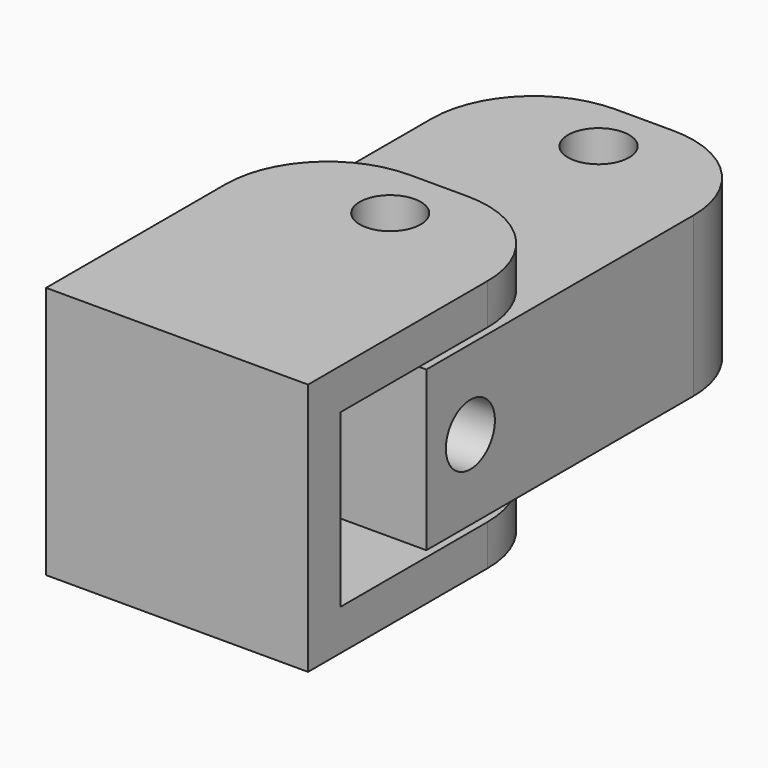
from build123d import *

# Parameters (mm, degrees)
F1_DEPTH      = 7.874
F1_DEPTH_BACK = 7.874
F2_T          = -2.54
F4_DEPTH      = 4.953
F4_DEPTH_BACK = 4.953
F5_R          = 1.899737
F6_DEPTH      = 17.018
F5_R_2        = 1.90461
F7_DEPTH      = 14.986
F8_R          = 1.908602
F9_DEPTH      = 17.272


with BuildPart() as f1:
    # F0 (on Top) → F1 (new body, two sides)
    with BuildSketch(Plane.XY) as f1_sk:
        with BuildLine():
            Line((-8.155428, -10.163382), (8.155428, -10.163382))
            Line((8.155428, -10.163382), (8.155428, 3.813382))
            ThreePointArc((8.155428, 3.813382), (6.295556, 8.30351), (1.805428, 10.163382))
            Line((1.805428, 10.163382), (-1.805428, 10.163382))
            ThreePointArc((-1.805428, 10.163382), (-6.295556, 8.30351), (-8.155428, 3.813382))
            Line((-8.155428, 3.813382), (-8.155428, -10.163382))
        make_face()
    extrude(amount=F1_DEPTH)
    extrude(f1_sk.sketch, amount=-F1_DEPTH_BACK)

    # F2
    f2_openings = [f1.faces().sort_by_distance(p)[0] for p in [
        (8.155428, -3.175, 0),
        (6.295556, 8.30351, 0),
        (0, 10.163382, 0),
        (-6.295556, 8.30351, 0),
        (-8.155428, -3.175, 0),
    ]]
    offset(amount=F2_T, openings=f2_openings)


with BuildPart() as f4:
    # F3 (on Top) → F4 (new body, two sides)
    with BuildSketch(Plane.XY) as f4_sk:
        with BuildLine():
            Line((-8.150021, -0.947974), (8.150021, -0.947974))
            Line((8.150021, -0.947974), (8.150021, 19.838358))
            ThreePointArc((8.150021, 19.838358), (6.290149, 24.328486), (1.800021, 26.188358))
            Line((1.800021, 26.188358), (-1.800021, 26.188358))
            ThreePointArc((-1.800021, 26.188358), (-6.290149, 24.328486), (-8.150021, 19.838358))
            Line((-8.150021, 19.838358), (-8.150021, -0.947974))
        make_face()
    extrude(amount=F4_DEPTH)
    extrude(f4_sk.sketch, amount=-F4_DEPTH_BACK)


with BuildPart() as f6_tool:
    # F5 (on face) → F6 (new body)
    with BuildSketch(Plane.XY.offset(7.874)):
        with Locations((0, 6.427398)):
            Circle(F5_R)
    extrude(amount=-F6_DEPTH)


with BuildPart() as f1_1:
    add(f1.part)

    # F6: cut by f6_tool
    add(f6_tool.part, mode=Mode.SUBTRACT)


with BuildPart() as f4_1:
    add(f4.part)

    # F6: cut by f6_tool
    add(f6_tool.part, mode=Mode.SUBTRACT)

    # F5 (on face) → F7 (cut)
    with BuildSketch(Plane.XY.offset(7.874)):
        with Locations((0, 22.641998)):
            Circle(F5_R_2)
    extrude(amount=-F7_DEPTH, mode=Mode.SUBTRACT)

    # F8 (on face) → F9 (cut)
    with BuildSketch(Plane.YZ.offset(8.150021)):
        with Locations((2.476655, 0)):
            Circle(F8_R)
    extrude(amount=-F9_DEPTH, mode=Mode.SUBTRACT)


solid = Compound([f1_1.part, f4_1.part])
